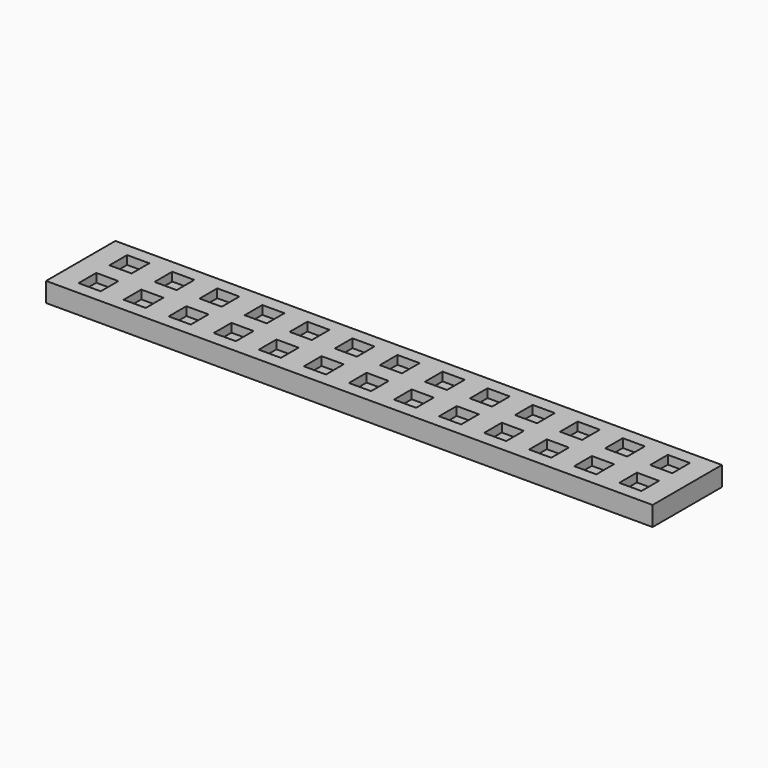
from build123d import *

# Parameters (mm, degrees)
F0_W     = 177.8
F0_H     = 25.4
F1_DEPTH = 3.175
F2_W     = 177.8
F2_H     = 25.4
F2_W_2   = 6.489529
F2_H_2   = 6.479562
F3_DEPTH = 2.54


with BuildPart() as f1:
    # F0 (on Top) → F1 (new body)
    with BuildSketch(Plane.XY):
        with Locations((88.9, 12.7)):
            Rectangle(F0_W, F0_H)
    extrude(amount=F1_DEPTH)

    # F2 (on face) → F3 (join)
    with BuildSketch(Plane.XY.offset(3.175)):
        with Locations((88.9, 12.7)):
            Rectangle(F2_W, F2_H)
        with Locations((9.734293, 7.034986)):
            Rectangle(F2_W_2, F2_H_2, mode=Mode.SUBTRACT)
        with Locations((22.942293, 7.034986)):
            Rectangle(F2_W_2, F2_H_2, mode=Mode.SUBTRACT)
        with Locations((36.150294, 7.034986)):
            Rectangle(F2_W_2, F2_H_2, mode=Mode.SUBTRACT)
        with Locations((49.358294, 7.034986)):
            Rectangle(F2_W_2, F2_H_2, mode=Mode.SUBTRACT)
        with Locations((62.566294, 7.034986)):
            Rectangle(F2_W_2, F2_H_2, mode=Mode.SUBTRACT)
        with Locations((75.774293, 7.034986)):
            Rectangle(F2_W_2, F2_H_2, mode=Mode.SUBTRACT)
        with Locations((88.982293, 7.034986)):
            Rectangle(F2_W_2, F2_H_2, mode=Mode.SUBTRACT)
        with Locations((102.190293, 7.034986)):
            Rectangle(F2_W_2, F2_H_2, mode=Mode.SUBTRACT)
        with Locations((115.398293, 7.034986)):
            Rectangle(F2_W_2, F2_H_2, mode=Mode.SUBTRACT)
        with Locations((128.606293, 7.034986)):
            Rectangle(F2_W_2, F2_H_2, mode=Mode.SUBTRACT)
        with Locations((141.814293, 7.034986)):
            Rectangle(F2_W_2, F2_H_2, mode=Mode.SUBTRACT)
        with Locations((155.022293, 7.034986)):
            Rectangle(F2_W_2, F2_H_2, mode=Mode.SUBTRACT)
        with Locations((168.230293, 7.034986)):
            Rectangle(F2_W_2, F2_H_2, mode=Mode.SUBTRACT)
        with Locations((9.734293, 18.350219)):
            Rectangle(F2_W_2, F2_H_2, mode=Mode.SUBTRACT)
        with Locations((22.942293, 18.350219)):
            Rectangle(F2_W_2, F2_H_2, mode=Mode.SUBTRACT)
        with Locations((36.150294, 18.350219)):
            Rectangle(F2_W_2, F2_H_2, mode=Mode.SUBTRACT)
        with Locations((49.358294, 18.350219)):
            Rectangle(F2_W_2, F2_H_2, mode=Mode.SUBTRACT)
        with Locations((62.566294, 18.350219)):
            Rectangle(F2_W_2, F2_H_2, mode=Mode.SUBTRACT)
        with Locations((75.774293, 18.350219)):
            Rectangle(F2_W_2, F2_H_2, mode=Mode.SUBTRACT)
        with Locations((88.982293, 18.350219)):
            Rectangle(F2_W_2, F2_H_2, mode=Mode.SUBTRACT)
        with Locations((102.190293, 18.350219)):
            Rectangle(F2_W_2, F2_H_2, mode=Mode.SUBTRACT)
        with Locations((115.398293, 18.350219)):
            Rectangle(F2_W_2, F2_H_2, mode=Mode.SUBTRACT)
        with Locations((128.606293, 18.350219)):
            Rectangle(F2_W_2, F2_H_2, mode=Mode.SUBTRACT)
        with Locations((141.814293, 18.350219)):
            Rectangle(F2_W_2, F2_H_2, mode=Mode.SUBTRACT)
        with Locations((155.022293, 18.350219)):
            Rectangle(F2_W_2, F2_H_2, mode=Mode.SUBTRACT)
        with Locations((168.230293, 18.350219)):
            Rectangle(F2_W_2, F2_H_2, mode=Mode.SUBTRACT)
    extrude(amount=F3_DEPTH)


solid = f1.part
